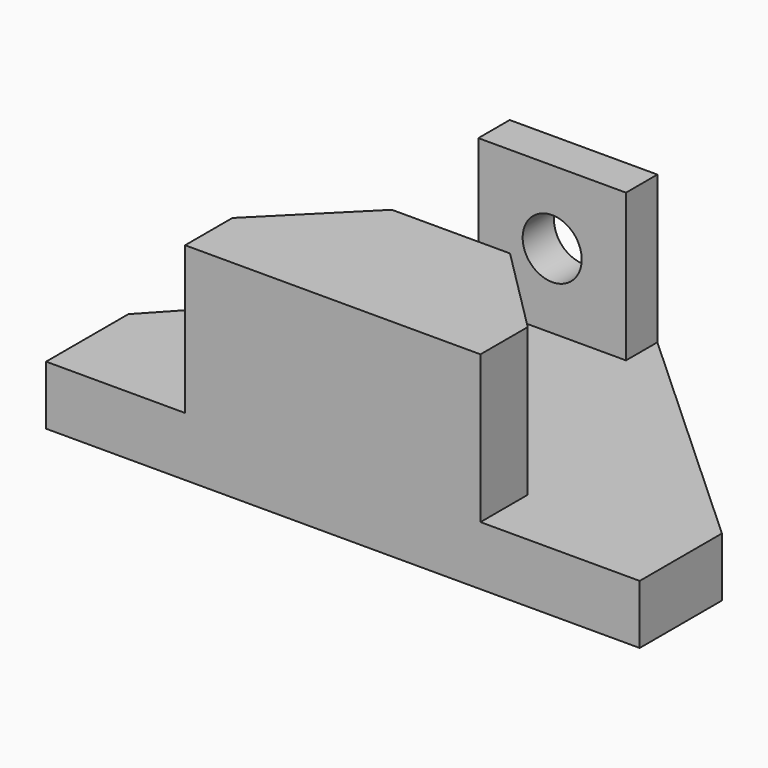
from build123d import *

# Parameters (mm, degrees)
F1_DEPTH = 12.7
F2_DEPTH = 44.45
F0_W     = 31.75
F0_H     = 8.428902
F3_DEPTH = 44.45
F4_R     = 6.35
F5_DEPTH = 14.224


with BuildPart() as f1:
    # F0 (on Top) → F1 (new body)
    with BuildSketch(Plane.XY):
        Polygon((-62.563881, 0), (-61.939803, 0), (-32.672367, 0), (-32.672367, 12.7), (-13.622367, 31.75), (11.777633, 31.75), (30.827633, 12.7), (30.827633, 0), (65.060197, 0), (65.060197, 22.098), (13.183661, 69.596), (13.183661, 61.167098), (-18.566339, 61.167098), (-18.566339, 69.596), (-62.563881, 22.098), align=None)
    extrude(amount=F1_DEPTH)

    # F0 (on Top) → F2 (join)
    with BuildSketch(Plane.XY):
        Polygon((-32.672367, 12.7), (-32.672367, 0), (30.827633, 0), (30.827633, 12.7), (11.777633, 31.75), (-13.622367, 31.75), align=None)
    extrude(amount=F2_DEPTH)

    # F0 (on Top) → F3 (join)
    with BuildSketch(Plane.XY):
        with Locations((-2.691339, 65.381549)):
            Rectangle(F0_W, F0_H)
    extrude(amount=F3_DEPTH)

    # F4 (on face) → F5 (cut)
    with BuildSketch(Plane(origin=(0, 69.596, 0), x_dir=(-1, 0, 0), z_dir=(0, 1, 0))):
        with Locations((2.691339, 28.702)):
            Circle(F4_R)
    extrude(amount=-F5_DEPTH, mode=Mode.SUBTRACT)


solid = f1.part
